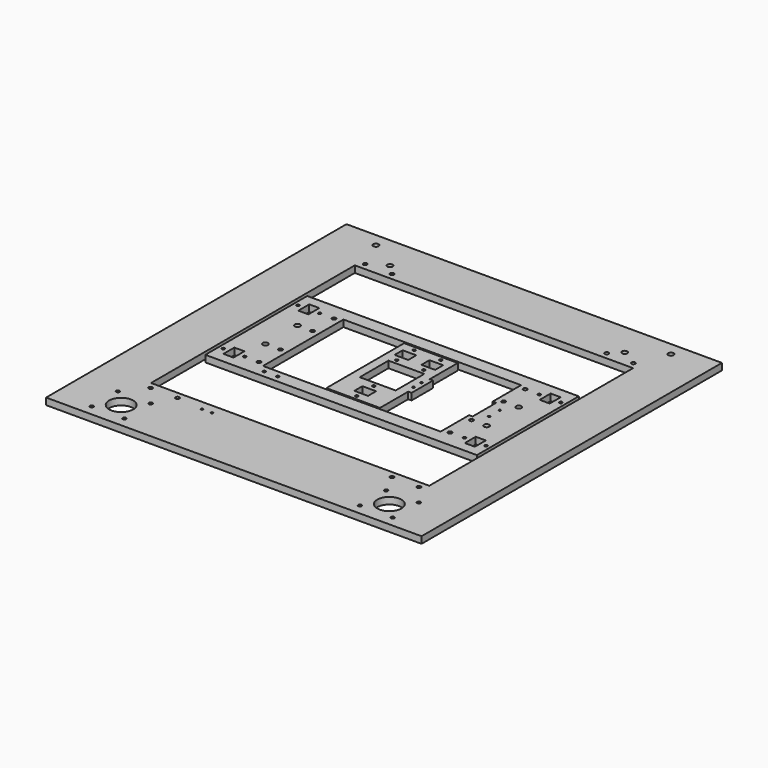
from build123d import *

# Parameters (mm, degrees)
F0_W        = 257.175
F0_H        = 120.65
F1_DEPTH    = 6.35
F0_W_2      = 3.175
F0_H_2      = 25.4
F2_DEPTH    = 6.35
F0_W_3      = 355.6
F0_H_3      = 336.55
F0_W_4      = 263.525
F0_H_4      = 241.3
F0_H_5      = 19.05
F3_DEPTH    = 6.35
F4_R        = 11.43
F5_DEPTH    = 25.4
F6_D        = 3.3
F7_W        = 9.525
F7_H        = 12.954
F7_W_2      = 12.954
F7_H_2      = 9.525
F7_W_3      = 34
F7_H_3      = 34
F8_DEPTH    = 25.4
F9_D        = 2.7051
F9_2_D      = 2.7051
F11_D       = 3.6576
F11_ON_F7_D = 3.6576
F12_D       = 2.0828
F12_2_D     = 2.0828
F13_D       = 2.0828
F14_D       = 5.1054
F15_D       = 5.1054


with BuildPart() as f1:
    # F0 (on Top) → F1 (new body)
    with BuildSketch(Plane.XY):
        Rectangle(F0_W, F0_H)
        Polygon((-84.1375, 47.625), (84.1375, 47.625), (84.1375, 13.97), (87.4395, 13.97), (87.4395, -13.97), (84.1375, -13.97), (84.1375, -47.625), (-84.1375, -47.625), align=None, mode=Mode.SUBTRACT)
    extrude(amount=F1_DEPTH)


with BuildPart() as f2:
    # F0 (on Top) → F2 (new body)
    with BuildSketch(Plane.XY):
        Polygon((25.4, 12.7), (25.4, 46.0375), (-25.4, 46.0375), (-25.4, -46.0375), (25.4, -46.0375), (25.4, -12.7), (22.225, -12.7), (22.225, 12.7), align=None)
        with Locations((23.8125, 0)):
            Rectangle(F0_W_2, F0_H_2)
        with Locations((26.9875, 0)):
            Rectangle(F0_W_2, F0_H_2)
    extrude(amount=F2_DEPTH)


with BuildPart() as f3:
    # F0 (on Top) → F3 (new body)
    with BuildSketch(Plane.XY):
        Rectangle(F0_W_3, F0_H_3)
        Rectangle(F0_W_4, F0_H_4, mode=Mode.SUBTRACT)
        with Locations((0, -177.8)):
            Rectangle(F0_W_3, F0_H_5)
    extrude(amount=F3_DEPTH)

    # F4 (on face) → F5 (cut)
    with BuildSketch(Plane.XY.offset(6.35)):
        with Locations((-127, -161.925)):
            Circle(F4_R)
        with Locations((127, -161.925)):
            Circle(F4_R)
    extrude(amount=-F5_DEPTH, mode=Mode.SUBTRACT)

    # F6 (through all)
    with Locations(Plane.XY.offset(6.35)):
        with Locations((-142.494, -146.425), (-111.5, -146.431), (-111.506, -177.425), (-142.5, -177.419), (111.5, -146.431), (142.494, -146.425), (111.506, -177.425), (142.5, -177.419)):
            Hole(F6_D / 2)

    # F11 (through all)
    with Locations(Plane.XY.offset(6.35)):
        with Locations((-127, -127), (-101.6, -127), (-127, 127), (-101.6, 127), (101.6, 127), (127, 127), (127, -127), (101.6, -127)):
            Hole(F11_D / 2)

    # F12#2 (through all)
    with Locations(Plane.XY.offset(6.35)):
        with Locations((-76.1875, -129.8575), (-66.6875, -129.8575), (96.9645, 6.35), (96.9645, -6.35)):
            Hole(F12_2_D / 2)

    # F15 (through all)
    with Locations(Plane.XY.offset(6.35)):
        with Locations((-139.7, 155.575), (-111.125, 136.525), (111.125, 136.525), (139.7, 155.575)):
            Hole(F15_D / 2)


with BuildPart() as f8_tool:
    # F7 (on face) → F8 (new body)
    with BuildSketch(Plane.XY.offset(6.35)):
        with Locations((-114.3, -44.323)):
            Rectangle(F7_W, F7_H)
        with Locations((-114.3, 44.323)):
            Rectangle(F7_W, F7_H)
        with Locations((-12.7, 31.75)):
            Rectangle(F7_W_2, F7_H_2)
        with Locations((114.3, -44.323)):
            Rectangle(F7_W, F7_H)
        with Locations((114.3, 44.323)):
            Rectangle(F7_W, F7_H)
        with Locations((0, -31.75)):
            Rectangle(F7_W_2, F7_H_2)
        with Locations((12.7, 31.75)):
            Rectangle(F7_W_2, F7_H_2)
        Rectangle(F7_W_3, F7_H_3)
    extrude(amount=-F8_DEPTH)


with BuildPart() as f1_1:
    add(f1.part)

    # F8: cut by f8_tool
    add(f8_tool.part, mode=Mode.SUBTRACT)

    # F9 (through all)
    with Locations(Plane.XY.offset(6.35)):
        with Locations((-124.5235, 44.323), (-104.0765, 44.323), (-124.5235, -44.323), (-104.0765, -44.323), (-12.7, 21.5265), (-12.7, 41.9735), (12.7, 41.9735), (12.7, 21.5265), (0, -21.5265), (0, -41.9735), (104.0765, 44.323), (124.5235, 44.323), (104.0765, -44.323), (124.5235, -44.323), (-77.7875, -53.975), (-65.0875, -53.975)):
            Hole(F9_D / 2)

    # F11 on F7 (through all)
    with Locations(Plane.XY.offset(6.35)):
        with Locations((-90.4875, 44.45), (-90.4875, 19.05), (-90.4875, -19.05), (-90.4875, -44.45), (90.4875, -44.45), (90.4875, -19.05), (90.4875, 19.05), (90.4875, 44.45)):
            Hole(F11_ON_F7_D / 2)

    # F12 (through all)
    with Locations(Plane.XY.offset(6.35)):
        with Locations((-76.1875, -129.8575), (-66.6875, -129.8575), (96.9645, 6.35), (96.9645, -6.35)):
            Hole(F12_D / 2)

    # F14 (through all)
    with Locations(Plane.XY.offset(6.35)):
        with Locations((-104.775, 19.05), (-104.775, -19.05), (104.775, -19.05), (104.775, 19.05)):
            Hole(F14_D / 2)


with BuildPart() as f2_1:
    add(f2.part)

    # F8: cut by f8_tool
    add(f8_tool.part, mode=Mode.SUBTRACT)

    # F9#2 (through all)
    with Locations(Plane.XY.offset(6.35)):
        with Locations((-124.5235, 44.323), (-104.0765, 44.323), (-124.5235, -44.323), (-104.0765, -44.323), (-12.7, 21.5265), (-12.7, 41.9735), (12.7, 41.9735), (12.7, 21.5265), (0, -21.5265), (0, -41.9735), (104.0765, 44.323), (124.5235, 44.323), (104.0765, -44.323), (124.5235, -44.323), (-77.7875, -53.975), (-65.0875, -53.975)):
            Hole(F9_2_D / 2)

    # F13 (through all)
    with Locations(Plane.XY.offset(6.35)):
        with Locations((24.13, 4.75), (24.13, -4.75)):
            Hole(F13_D / 2)


solid = Compound([f3.part, f1_1.part, f2_1.part])
